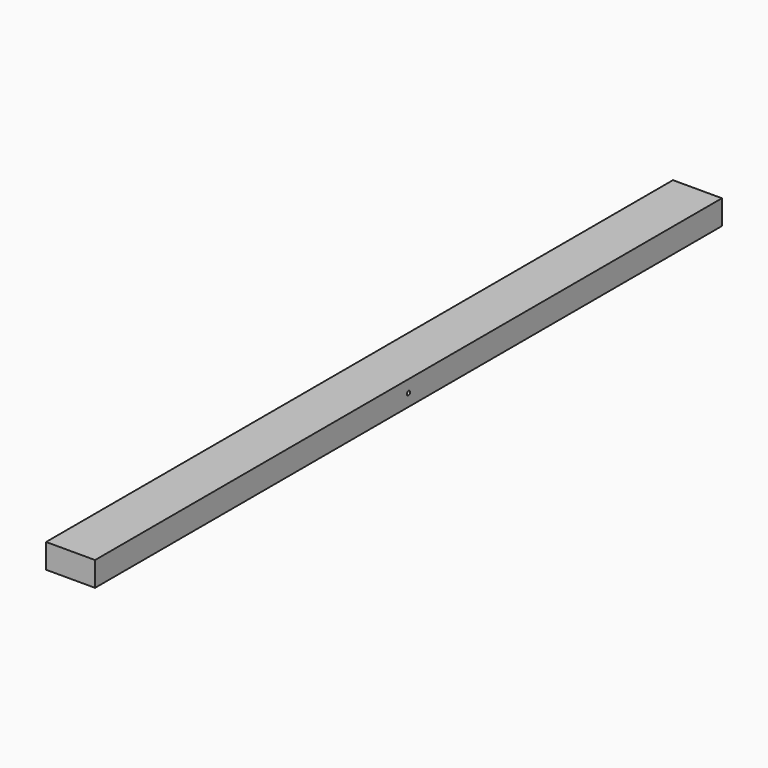
from build123d import *

# Parameters (mm, degrees)
F0_W     = 60
F0_H     = 30
F1_DEPTH = 960
F2_R     = 2.5
F3_DEPTH = 25


with BuildPart() as f1:
    # F0 (on Front) → F1 (new body)
    with BuildSketch(Plane.XZ):
        Rectangle(F0_W, F0_H)
    extrude(amount=F1_DEPTH)

    # F2 (on face) → F3 (cut)
    with BuildSketch(Plane.YZ.offset(30)):
        with Locations((-480, 0)):
            Circle(F2_R)
    extrude(amount=-F3_DEPTH, mode=Mode.SUBTRACT)


solid = f1.part
